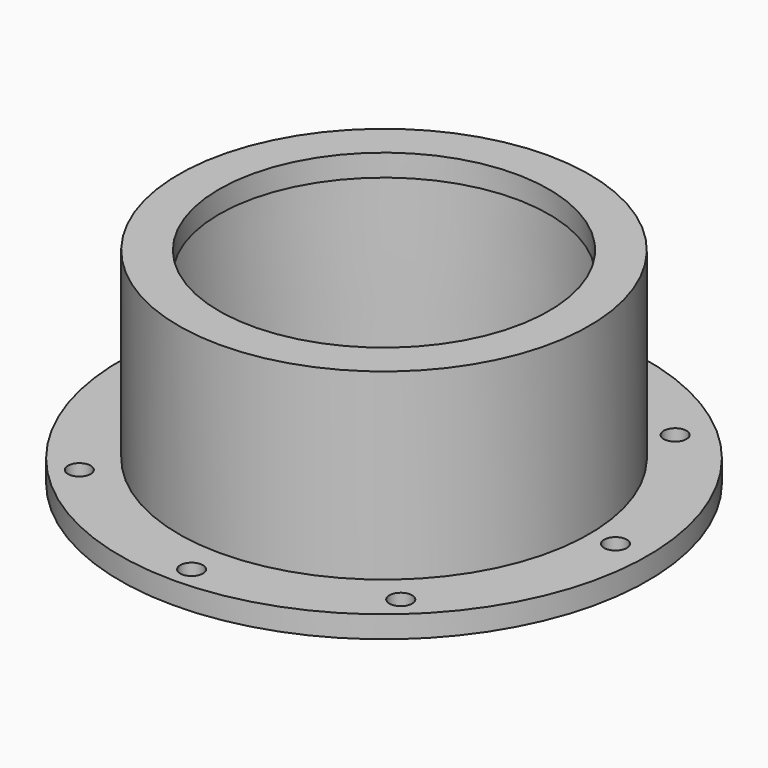
from build123d import *

# Parameters (mm, degrees)
F3_D = 45
F5_D = 3.1


with BuildPart() as f1:
    # F0 (on Right) → F1 (revolve)
    with BuildSketch(Plane.YZ):
        Polygon((0, -3), (0, 0), (-28, 0), (-28, -25), (-36, -25), (-36, -28), (-26.00142, -28), (-26.00142, -25), (-24.80142, -25), (-25, -3), align=None)
        Polygon((0, -3), (0, 0), (-28, 0), (-28, -25), (-36, -25), (-36, -28), (-26.00142, -28), (-26.00142, -25), (-24.80142, -25), (-25, -3), align=None)
    revolve(axis=Axis((0, 0, -1.5), (0, 0, 1)))

    # F3 (through all)
    with Locations(Plane.XY):
        with Locations((0, 0)):
            Hole(F3_D / 2)

    # F5 (through all)
    with Locations(Plane.XY.offset(-25)):
        with Locations((-23.680949, -22.36131), (-31.911136, 0), (-24.321431, 20.12001), (0, 31.295169), (20.850252, 23.587119), (31.582344, 0), (21.738935, -24.314574), (0, -32.812748)):
            Hole(F5_D / 2)


solid = f1.part
